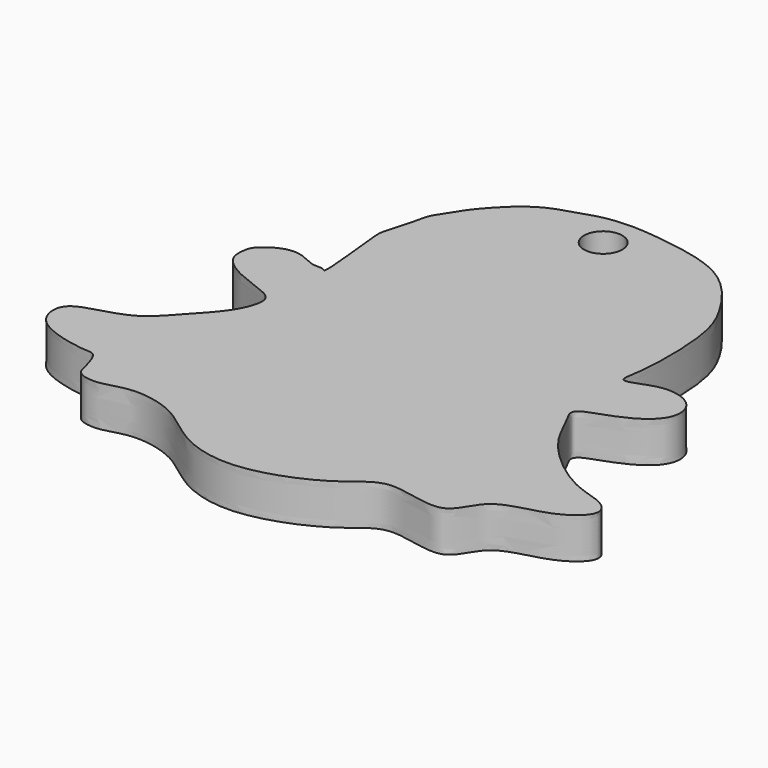
from build123d import *

# Parameters (mm, degrees)
F1_DEPTH = 5
F2_R     = 2.3454891806
F3_DEPTH = 5


with BuildPart() as f1:
    # F0 (on Top) → F1 (new body)
    with BuildSketch(Plane.XY):
        with BuildLine():
            add(Edge.make_bspline(
                [(-37.1289886534, 67.70696491), (-38.2533023603, 67.7208039663), (-40.4583654203, 67.5499492062), (-43.9279229425, 66.3749947753), (-47.5940740418, 65.2191045144), (-51.5842316862, 60.8654438819), (-52.4184120286, 59.2977906535), (-53.8723176119, 57.3388560259), (-54.052388683, 55.7368968375), (-55.2257490104, 52.0464353805), (-55.3518695975, 50.6673468835), (-54.1207050017, 41.3805013482), (-54.9101862245, 42.5308681053), (-56.2099200448, 42.1863958678), (-58.2653925724, 43.5504008927), (-60.7105366278, 43.3958793618), (-62.9455109758, 41.6963085653), (-63.1832697259, 40.6130086768), (-63.3632617564, 38.4945237282), (-60.3455036003, 36.2971794192), (-56.2848139104, 35.1688823711), (-54.752012392, 33.7734489197), (-56.0874169801, 30.0401245742), (-59.4580896762, 26.7811704935), (-62.4683120906, 22.9623832946), (-67.9792602194, 21.9873505739), (-70.050160734, 20.3970201714), (-69.305535064, 16.1867458974), (-62.3814413213, 14.8393565383), (-60.8482081768, 15.0708727697), (-59.9678855403, 12.4966373856), (-59.7344710212, 10.6410887114), (-56.7121970784, 10.1951389297), (-53.5383968594, 11.715774087), (-47.5546805339, 10.5548912854), (-43.3662497627, 6.2942102789), (-35.6991061491, 4.1766754536), (-25.9132505319, 8.2603718612), (-22.3710179597, 12.6119204268), (-14.0611129556, 9.0447643173), (-12.7161724609, 15.2395618157), (-5.9385989562, 15.7577646681), (-1.981774659, 19.0511219275), (-3.8127990095, 21.4364016447), (-8.2563289809, 22.0049480923), (-15.002276849, 27.5996955857), (-16.5796370735, 31.8213046412), (-18.3742329309, 34.4175530293), (-14.9299980486, 35.4549043237), (-11.0537932092, 37.0584610185), (-9.0712783485, 39.6817641407), (-9.8692460843, 42.677337389), (-13.5868068775, 43.8171601699), (-16.3571313245, 42.55551748), (-18.4584180579, 41.970477136), (-17.5845224848, 44.9417019669), (-17.5236840923, 54.595855837), (-19.6769248366, 59.5169776622), (-24.4305965908, 66.0128069753), (-32.66544428, 67.3487813072), (-35.8365938722, 67.6910569619), (-37.1289886534, 67.70696491)],
                knots=[0, 0, 0, 0, 0.016074946, 0.0326912006, 0.0503256488, 0.071268052, 0.0834528883, 0.0964896616, 0.1081563347, 0.1245707858, 0.1378320802, 0.1627085672, 0.1679435962, 0.1776553793, 0.19120586, 0.2049291171, 0.219136321, 0.2282315491, 0.2400401473, 0.2566433253, 0.2749552389, 0.2862429022, 0.3025761029, 0.3219996652, 0.341395824, 0.3618073524, 0.3749138742, 0.390907197, 0.4135251557, 0.423846675, 0.4374250292, 0.448993481, 0.4628762209, 0.4794762092, 0.5004112254, 0.5217719846, 0.546025486, 0.574174129, 0.5941964444, 0.6172872267, 0.6358836359, 0.6583991369, 0.6765669221, 0.6889587722, 0.7074889113, 0.7333222566, 0.7525155034, 0.7655694415, 0.7802308344, 0.7988948465, 0.8140669675, 0.8281389159, 0.8445503681, 0.8603298463, 0.8708253935, 0.8837707848, 0.9112860017, 0.9323142349, 0.9564432812, 0.9815219043, 1, 1, 1, 1], degree=3))
        make_face()
    extrude(amount=F1_DEPTH)

    # F2 (on face) → F3 (cut)
    with BuildSketch(Plane.XY.offset(5)):
        with Locations((-37.3095422983, 63.3618608117)):
            Circle(F2_R)
    extrude(amount=-F3_DEPTH, mode=Mode.SUBTRACT)


solid = f1.part
